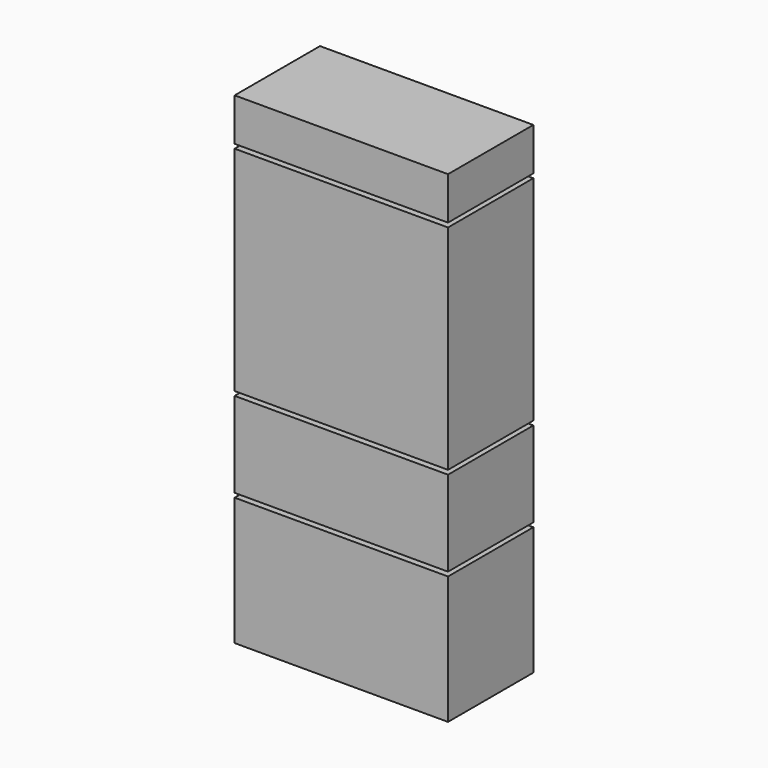
from build123d import *

# Parameters (mm, degrees)
F0_W     = 50
F0_H     = 30
F0_H_2   = 20
F0_H_3   = 50
F0_H_4   = 10
F1_DEPTH = 25


with BuildPart() as f1:
    # F0 (on Front) → F1 (new body)
    with BuildSketch(Plane.XZ):
        with Locations((25, 15)):
            Rectangle(F0_W, F0_H)
        with Locations((25, 41)):
            Rectangle(F0_W, F0_H_2)
        with Locations((25, 77)):
            Rectangle(F0_W, F0_H_3)
        with Locations((25, 108)):
            Rectangle(F0_W, F0_H_4)
    extrude(amount=-F1_DEPTH)


solid = f1.part
